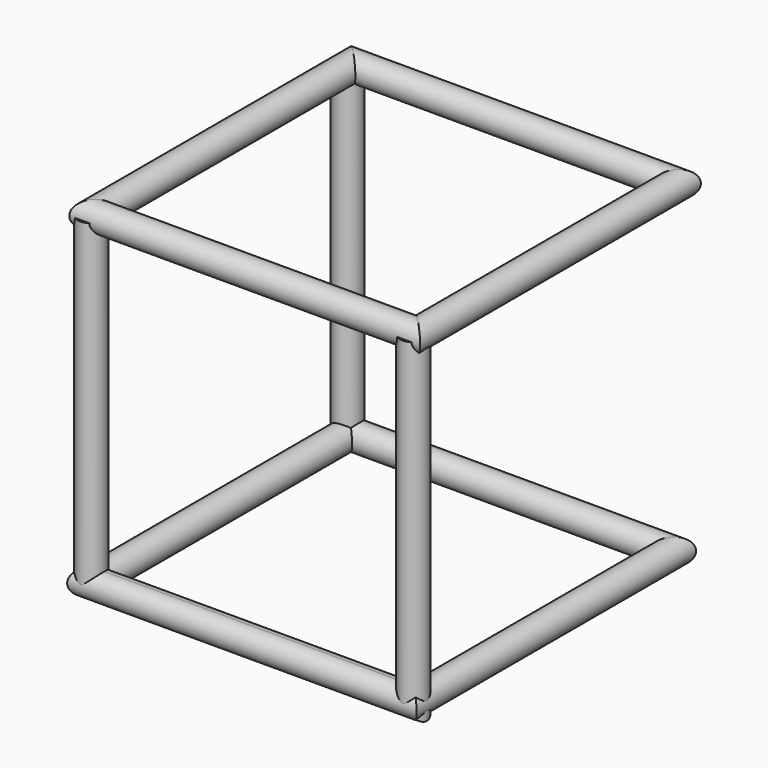
from build123d import *

# Parameters (mm, degrees)
F1_R  = 6.35
F6_R  = 6.35
F9_R  = 6.35
F13_R = 6.35


with BuildPart() as f2:
    # F2: sweep along a path in F0
    with BuildLine(Plane.XY) as f2_path:
        Line((-76.3653023233, 76.034690243), (76.0346976767, 76.034690243))
        Line((76.0346976767, 76.034690243), (76.0346976767, -76.365309757))
        Line((76.0346976767, -76.365309757), (-76.3653023233, -76.365309757))
        Line((-76.3653023233, -76.365309757), (-76.3653023233, 76.034690243))
    # F1 (on Front) → F2 (sweep)
    with BuildSketch(Plane.XZ):
        with Locations((-76.3653023233, 0)):
            Circle(F1_R)
    sweep(path=f2_path.line, transition=Transition.RIGHT)


with BuildPart() as f7:
    # F7: sweep along a path in F5
    with BuildLine(Plane.XZ.offset(-76.2)) as f7_path:
        Line((-77.3671647617, 0), (-77.3671647617, 152.4))
    # F6 (on Top) → F7 (sweep)
    with BuildSketch(Plane.XY):
        with Locations((-77.3671647617, 76.2)):
            Circle(F6_R)
    sweep(path=f7_path.line)


with BuildPart() as f10:
    # F10: sweep along a path in F8
    with BuildLine(Plane.XZ.offset(76.2)) as f10_path:
        Line((-76.5970647335, 152.4), (-76.5970647335, 0))
        Line((-76.5970647335, 0), (75.6899863482, 0))
        Line((75.6899863482, 0), (75.6899863482, 152.4))
    # F9 (on Top) → F10 (sweep)
    with BuildSketch(Plane.XY):
        with Locations((-76.5970647335, -76.2)):
            Circle(F9_R)
    sweep(path=f10_path.line, transition=Transition.RIGHT)


with BuildPart() as f14:
    # F14: sweep along a path in F12
    with BuildLine(Plane.XY.offset(152.4)) as f14_path:
        Line((-76.2867927551, -75.1996487379), (76.8100395799, -75.1996487379))
        Line((76.8100395799, -75.1996487379), (76.8100395799, 77.8971910477))
        Line((76.8100395799, 77.8971910477), (-76.2867927551, 77.8971910477))
        Line((-76.2867927551, 77.8971910477), (-76.2867927551, -75.1996487379))
    # F13 (on offset) → F14 (sweep)
    with BuildSketch(Plane.XZ.offset(-76.2)):
        with Locations((-76.2867927551, 152.4)):
            Circle(F13_R)
    sweep(path=f14_path.line, transition=Transition.RIGHT)


solid = Compound([f2.part, f7.part, f10.part, f14.part])
